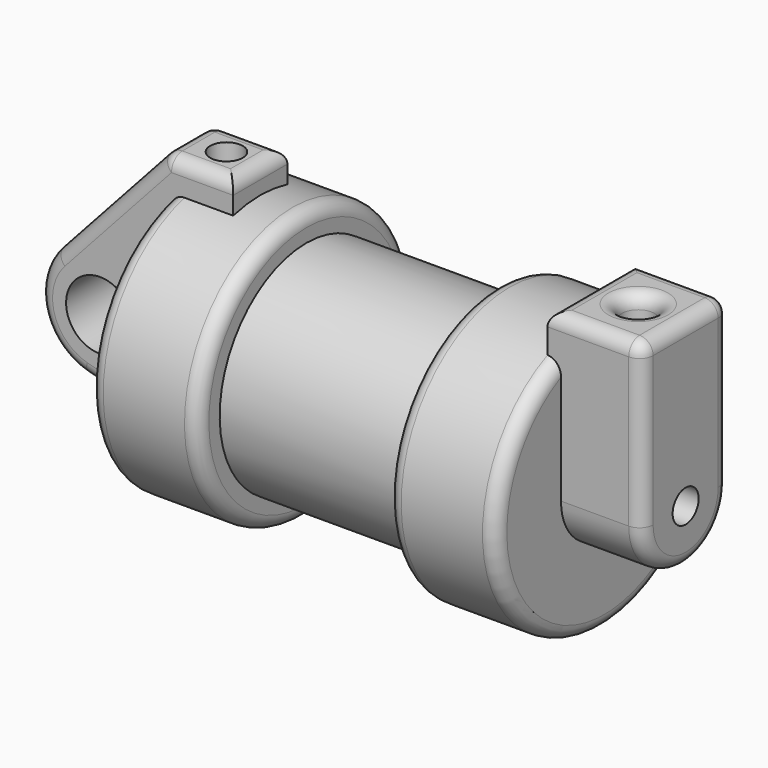
from build123d import *

# Parameters (mm, degrees)
F0_W     = 5.842
F0_H     = 12.7
F0_R     = 3.175
F2_DEPTH = 3.175
F3_R     = 1.524
F4_DEPTH = 1.27
F5_DEPTH = 7.62
F6_DEPTH = 27.94
F7_R     = 1.524
F8_DEPTH = 17.78
F9_DEPTH = 10.414
F10_R    = 1.27
F10_2_R  = 1.27


with BuildPart() as f1:
    # F0 (on Front) → F1 (revolve)
    with BuildSketch(Plane.XZ):
        Polygon((5.842, 12.7), (5.842, 0), (38.1, 0), (38.1, 12.7), (27.94, 12.7), (27.94, 10.16), (10.16, 10.16), (10.16, 12.7), align=None)
        with Locations((2.921, 6.35)):
            Rectangle(F0_W, F0_H)
    revolve(axis=Axis((19.05, 0, 0), (-1, 0, 0)))

    # F3 (on face) → F4 (join)
    with BuildSketch(Plane.YZ.offset(38.1)):
        with BuildLine():
            ThreePointArc((-5.08, 0), (0, 5.08), (5.08, 0))
            Line((5.08, 0), (5.08, 11.6397422652))
            ThreePointArc((5.08, 11.6397422652), (0, 12.7), (-5.08, 11.6397422652))
            Line((-5.08, 11.6397422652), (-5.08, 0))
        make_face()
        with BuildLine():
            ThreePointArc((-5.08, 11.6397422652), (0, 12.7), (5.08, 11.6397422652))
            Line((5.08, 11.6397422652), (5.08, 15.24))
            Line((5.08, 15.24), (3.175, 15.24))
            Line((3.175, 15.24), (-3.175, 15.24))
            Line((-3.175, 15.24), (-5.08, 15.24))
            Line((-5.08, 15.24), (-5.08, 11.6397422652))
        make_face()
        with BuildLine():
            ThreePointArc((-5.08, 0), (0, -5.08), (5.08, 0))
            ThreePointArc((5.08, 0), (0, 5.08), (-5.08, 0))
        make_face()
        Circle(F3_R, mode=Mode.SUBTRACT)
    extrude(amount=-F4_DEPTH)

    # F3 (on face) → F5 (join)
    with BuildSketch(Plane.YZ.offset(38.1)):
        with BuildLine():
            ThreePointArc((-5.08, 0), (0, -5.08), (5.08, 0))
            ThreePointArc((5.08, 0), (0, 5.08), (-5.08, 0))
        make_face()
        Circle(F3_R, mode=Mode.SUBTRACT)
        with BuildLine():
            ThreePointArc((-5.08, 0), (0, 5.08), (5.08, 0))
            Line((5.08, 0), (5.08, 11.6397422652))
            ThreePointArc((5.08, 11.6397422652), (0, 12.7), (-5.08, 11.6397422652))
            Line((-5.08, 11.6397422652), (-5.08, 0))
        make_face()
        with BuildLine():
            ThreePointArc((-5.08, 11.6397422652), (0, 12.7), (5.08, 11.6397422652))
            Line((5.08, 11.6397422652), (5.08, 15.24))
            Line((5.08, 15.24), (3.175, 15.24))
            Line((3.175, 15.24), (-3.175, 15.24))
            Line((-3.175, 15.24), (-5.08, 15.24))
            Line((-5.08, 15.24), (-5.08, 11.6397422652))
        make_face()
    extrude(amount=F5_DEPTH)

    # F3 (on face) → F6 (cut, through all)
    with BuildSketch(Plane.YZ.offset(38.1)):
        Circle(F3_R)
    extrude(amount=-F6_DEPTH, mode=Mode.SUBTRACT)

    # F7 (on face) → F9 (cut)
    with BuildSketch(Plane.XY.offset(15.24)):
        with Locations((41.275, 0)):
            Circle(F7_R)
    extrude(amount=-F9_DEPTH, mode=Mode.SUBTRACT)

    # F10#2
    f10_2_edges = [f1.edges().sort_by_distance(p)[0] for p in [
        (10.16, 0, -12.7),
        (0, 0, -12.7),
        (27.94, 0, -12.7),
        (38.1, 0, -12.7),
        (45.72, 0, -5.08),
        (41.275, -5.08, 15.24),
        (45.72, 0, 15.24),
        (41.275, 5.08, 15.24),
        (36.83, 0, 15.24),
        (39.751, 0, 15.24),
    ]]
    fillet(f10_2_edges, radius=F10_2_R)


with BuildPart() as f2:
    # F0 (on Front) → F2 (new body, symmetric)
    with BuildSketch(Plane.XZ):
        with Locations((2.921, 6.35)):
            Rectangle(F0_W, F0_H)
        with BuildLine():
            Line((-0.9398, 0), (0, 0))
            Line((0, 0), (0, 12.7))
            Line((0, 12.7), (5.842, 12.7))
            Line((5.842, 12.7), (5.842, 15.24))
            Line((5.842, 15.24), (-0.508, 15.24))
            Line((-0.508, 15.24), (-10.8806298187, 3.8475430269))
            ThreePointArc((-10.8806298187, 3.8475430269), (-4.5919612295, 5.3297205562), (-0.9398, 0))
        make_face()
        with BuildLine():
            ThreePointArc((-8.1826630726, -5.5069827884), (-3.1957909266, -4.5493385486), (-0.9398, 0))
            ThreePointArc((-0.9398, 0), (-4.5919612295, 5.3297205562), (-10.8806298187, 3.8475430269))
            ThreePointArc((-10.8806298187, 3.8475430269), (-12.1459778134, -1.5837270034), (-8.1826630726, -5.5069827884))
        make_face()
        with Locations((-6.6548, 0)):
            Circle(F0_R, mode=Mode.SUBTRACT)
        with BuildLine():
            Line((5.842, 0), (0, 0))
            Line((0, 0), (-0.9398, 0))
            ThreePointArc((-0.9398, 0), (-3.1957909266, -4.5493385486), (-8.1826630726, -5.5069827884))
            Line((-8.1826630726, -5.5069827884), (5.842, -9.398))
            Line((5.842, -9.398), (5.842, 0))
        make_face()
    extrude(amount=F2_DEPTH, both=True)

    # F7 (on face) → F8 (cut)
    with BuildSketch(Plane.XY.offset(15.24)):
        with Locations((2.667, 0)):
            Circle(F7_R)
    extrude(amount=-F8_DEPTH, mode=Mode.SUBTRACT)

    # F10
    f10_edges = [f2.edges().sort_by_distance(p)[0] for p in [
        (2.667, -3.175, 15.24),
        (5.842, 0, 15.24),
        (2.667, 3.175, 15.24),
        (-0.508, 0, 15.24),
        (-5.694315, -3.175, 9.543772),
        (-12.145978, 3.175, -1.583727),
    ]]
    fillet(f10_edges, radius=F10_R)


solid = Compound([f1.part, f2.part])
